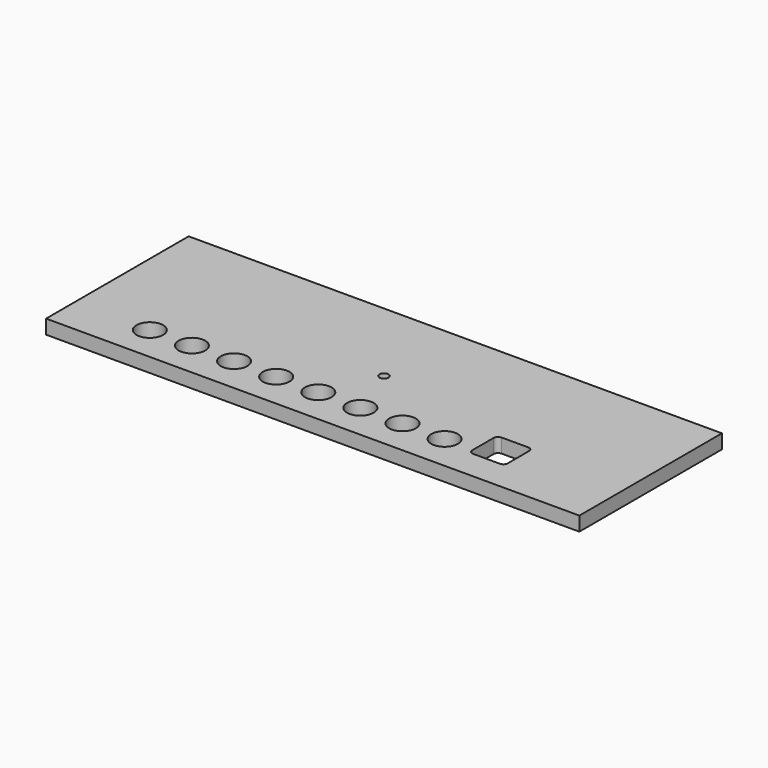
from build123d import *

# Parameters (mm, degrees)
SKETCH_W   = 120.3
SKETCH_H   = 40.2
SKETCH_R   = 3
SKETCH_R_2 = 1.02
PAD_DEPTH  = 3.2


with BuildPart() as part:
    # Sketch → Pad (new body)
    with BuildSketch(Plane.XY):
        Rectangle(SKETCH_W, SKETCH_H)
        with Locations((-43.15, -12.1)):
            Circle(SKETCH_R, mode=Mode.SUBTRACT)
        with Locations((-33.65, -12.1)):
            Circle(SKETCH_R, mode=Mode.SUBTRACT)
        with Locations((-24.15, -12.1)):
            Circle(SKETCH_R, mode=Mode.SUBTRACT)
        with Locations((-14.65, -12.1)):
            Circle(SKETCH_R, mode=Mode.SUBTRACT)
        with Locations((13.85, -12.1)):
            Circle(SKETCH_R, mode=Mode.SUBTRACT)
        with Locations((-5.15, -12.1)):
            Circle(SKETCH_R, mode=Mode.SUBTRACT)
        with Locations((4.35, -12.1)):
            Circle(SKETCH_R, mode=Mode.SUBTRACT)
        with Locations((23.35, -12.1)):
            Circle(SKETCH_R, mode=Mode.SUBTRACT)
        Circle(SKETCH_R_2, mode=Mode.SUBTRACT)
        with BuildLine():
            Line((36.85, -5.4), (30.85, -5.4))
            ThreePointArc((30.85, -5.4), (30.142893, -5.692893), (29.85, -6.4))
            Line((29.85, -6.4), (29.85, -12.4))
            ThreePointArc((29.85, -12.4), (30.142893, -13.107107), (30.85, -13.4))
            Line((30.85, -13.4), (36.85, -13.4))
            ThreePointArc((36.85, -13.4), (37.557107, -13.107107), (37.85, -12.4))
            Line((37.85, -12.4), (37.85, -6.4))
            ThreePointArc((37.85, -6.4), (37.557107, -5.692893), (36.85, -5.4))
        make_face(mode=Mode.SUBTRACT)
    extrude(amount=PAD_DEPTH)


solid = part.part
